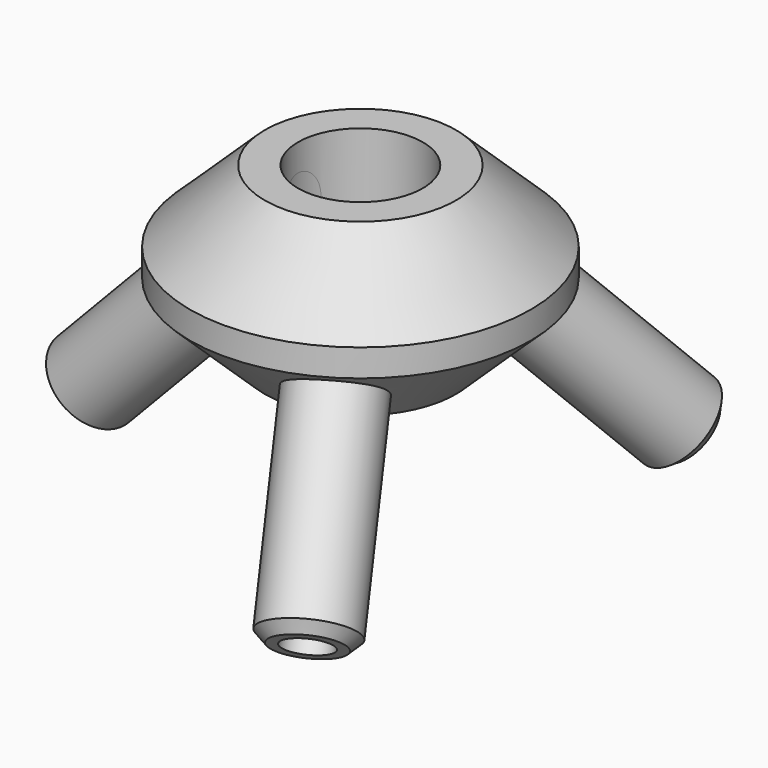
from build123d import *

# Parameters (mm, degrees)
F4_R     = 3.4
F5_DEPTH = 75.0134427933
F6_SIZE  = 1.5
F7_COUNT = 3


with BuildPart() as f1:
    # F0 (on Front) → F1 (revolve)
    with BuildSketch(Plane.XZ):
        Polygon((-9.15, 1), (-9.15, 25), (-14, 25), (-25, 14.5), (-25, 10.5), (-14, 0), (-10.15, 0), (-10.15, 1), align=None)
    revolve(axis=Axis((0, 0, 12.5), (0, 0, -1)))

    # F2 (on Front) → F3 (revolve)
    with BuildSketch(Plane.XZ):
        Polygon((-35.584796918, -20.8697111031), (-14.8705245175, 0.8309552212), (-10.4189875067, 5.4944701849), (-15.0484629892, 9.9135149637), (-19.5, 5.25), (-40.2142724005, -16.4506663243), align=None)
    revolve(axis=Axis((-29.8571362002, 0, -5.6003331622), (0.6904757467, 0, 0.7233555441)))

    # F4 (on face) → F5 (cut, through all)
    with BuildSketch(Plane(origin=(-27.3888669951, 0, -28.6930987567), x_dir=(0.7233555441, 0, -0.6904757467), z_dir=(-0.6904757467, 0, -0.7233555441))):
        with Locations((-17.7304307809, 0)):
            Circle(F4_R)
    extrude(amount=-F5_DEPTH, mode=Mode.SUBTRACT)

    # F6
    f6_edges = [f1.edges().sort_by_distance(p)[0] for p in [
        (-44.843748, 0, -12.031622),
    ]]
    chamfer(f6_edges, length=F6_SIZE)

    # F7: F1 ×3 about axis
    f7_axis = Axis((0, 0, 14.5), (0, 0, -1))


with BuildPart() as f1_1:
    add(f1.part)
    for i in range(1, F7_COUNT):
        add(f1.part.rotate(f7_axis, i * 360 / F7_COUNT))


solid = f1_1.part
